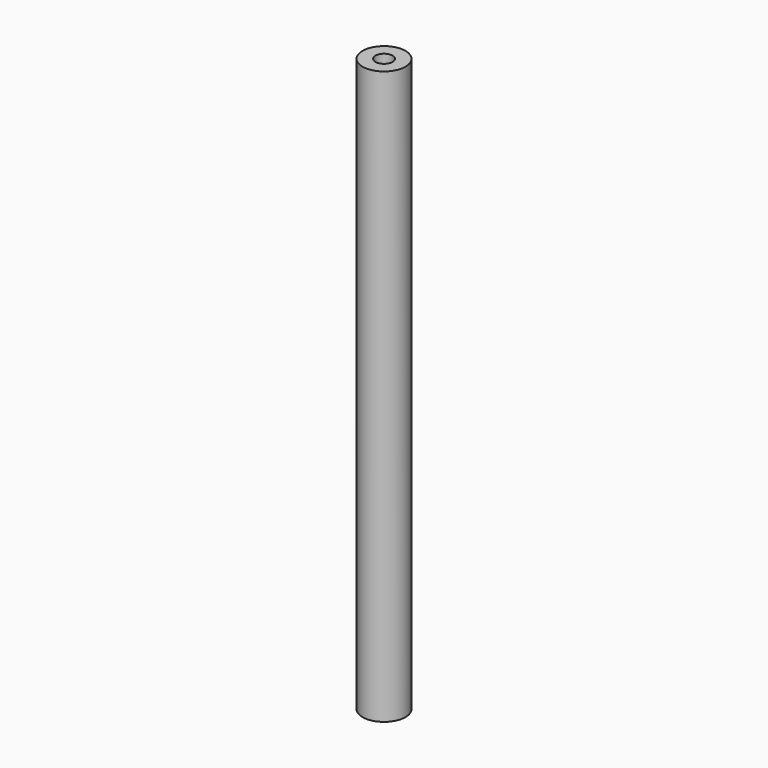
from build123d import *

# Parameters (mm, degrees)
F0_R     = 0.75
F1_DEPTH = 20
F2_R     = 0.3
F3_DEPTH = 3
F4_R     = 0.15
F5_DEPTH = 7
F6_R     = 0.45
F7_DEPTH = 3
F8_R     = 0.25
F9_DEPTH = 7


with BuildPart() as f1:
    # F0 (on Top) → F1 (new body)
    with BuildSketch(Plane.XY):
        Circle(F0_R)
    extrude(amount=F1_DEPTH)

    # F2 (on face) → F3 (cut)
    with BuildSketch(Plane.XY.offset(20)):
        Circle(F2_R)
    extrude(amount=-F3_DEPTH, mode=Mode.SUBTRACT)

    # F4 (on face) → F5 (cut)
    with BuildSketch(Plane.XY.offset(17)):
        Circle(F4_R)
    extrude(amount=-F5_DEPTH, mode=Mode.SUBTRACT)

    # F6 (on face) → F7 (cut)
    with BuildSketch(Plane(origin=(0, 0, 0), x_dir=(1, 0, 0), z_dir=(0, 0, -1))):
        Circle(F6_R)
    extrude(amount=-F7_DEPTH, mode=Mode.SUBTRACT)

    # F8 (on face) → F9 (cut)
    with BuildSketch(Plane(origin=(0, 0, 3), x_dir=(1, 0, 0), z_dir=(0, 0, -1))):
        Circle(F8_R)
    extrude(amount=-F9_DEPTH, mode=Mode.SUBTRACT)


solid = f1.part
